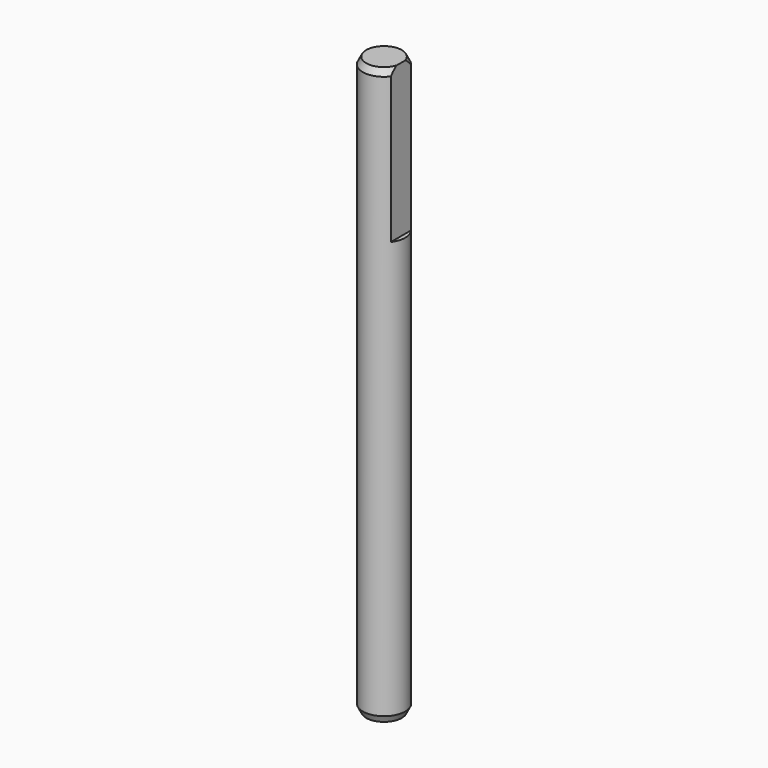
from build123d import *

# Parameters (mm, degrees)
SKETCH012_R      = 2.5
PAD006_DEPTH     = 68
POCKET003_DEPTH  = 18
CHAMFER002_SIZE2 = 0.4
CHAMFER002_SIZE  = 0.8


with BuildPart() as part:
    # Sketch012 → Pad006 (new body)
    with BuildSketch(Plane.XY):
        Circle(SKETCH012_R)
    extrude(amount=PAD006_DEPTH)

    # Sketch013 (on Face3 of Pad006) → Pocket003 (cut)
    with BuildSketch(Plane.XY.offset(68)):
        with BuildLine():
            ThreePointArc((2, -1.5), (2.5, 0), (2, 1.5))
            Line((2, 1.5), (2, -1.5))
        make_face()
    extrude(amount=-POCKET003_DEPTH, mode=Mode.SUBTRACT)

    # Chamfer002
    chamfer002_edges = [part.edges().sort_by_distance(p)[0] for p in [
        (-2.5, 0, 68),
        (-2.5, 0, 0),
    ]]
    chamfer002_side = part.faces().sort_by_distance((-2.5, 0, 34))[0]
    chamfer(chamfer002_edges, length=CHAMFER002_SIZE, length2=CHAMFER002_SIZE2, reference=chamfer002_side)


with BuildPart() as part_1:
    # Body003 placement: moved
    add(part.part.moved(Location((0, 0, 2.8))))


solid = part_1.part
